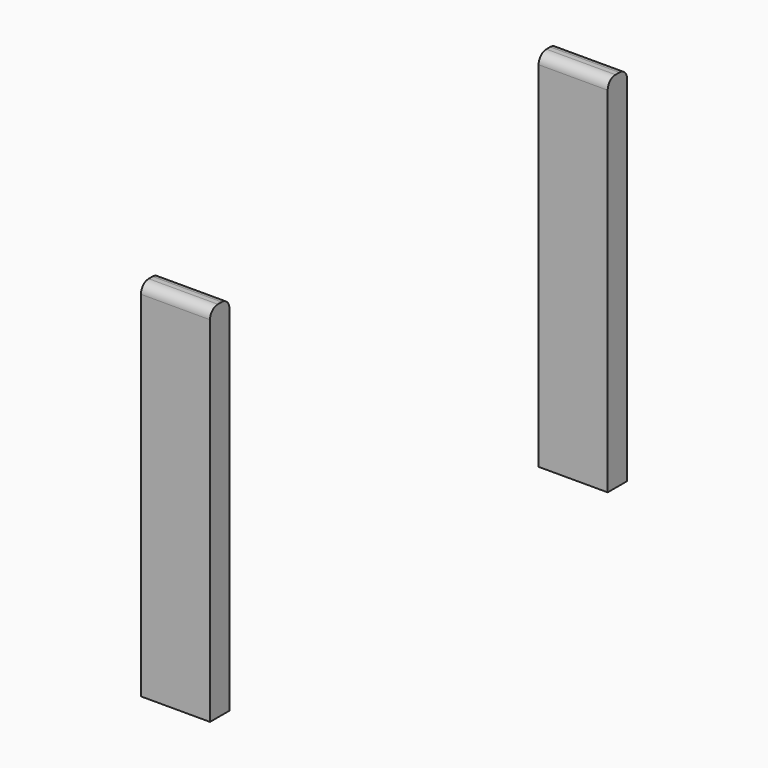
from build123d import *

# Parameters (mm, degrees)
BOX002_W     = 2.85
BOX002_H     = 1
BOX002_DEPTH = 15
BOX003_W     = 2.85
BOX003_H     = 1
BOX003_DEPTH = 15
FILLET007_R  = 0.4


with BuildPart() as cube002:
    # Box002 → Box002 (new body)
    with BuildSketch(Plane(origin=(-38, -10.75, 12), x_dir=(1, 0, 0), z_dir=(0, 0, 1))):
        with Locations((1.425, 0.5)):
            Rectangle(BOX002_W, BOX002_H)
    extrude(amount=BOX002_DEPTH)


with BuildPart() as side_cut:
    # Box003 → Box003 (new body)
    with BuildSketch(Plane(origin=(-38, 9.75, 12), x_dir=(1, 0, 0), z_dir=(0, 0, 1))):
        with Locations((1.425, 0.5)):
            Rectangle(BOX003_W, BOX003_H)
    extrude(amount=BOX003_DEPTH)

    # Fusion005: union Cube002
    add(cube002.part)

    # Fillet007
    fillet007_edges = [side_cut.edges().sort_by_distance(p)[0] for p in [
        (-36.575, 9.75, 27),
        (-36.575, 10.75, 27),
        (-36.575, -10.75, 27),
        (-36.575, -9.75, 27),
    ]]
    fillet(fillet007_edges, radius=FILLET007_R)


solid = side_cut.part
